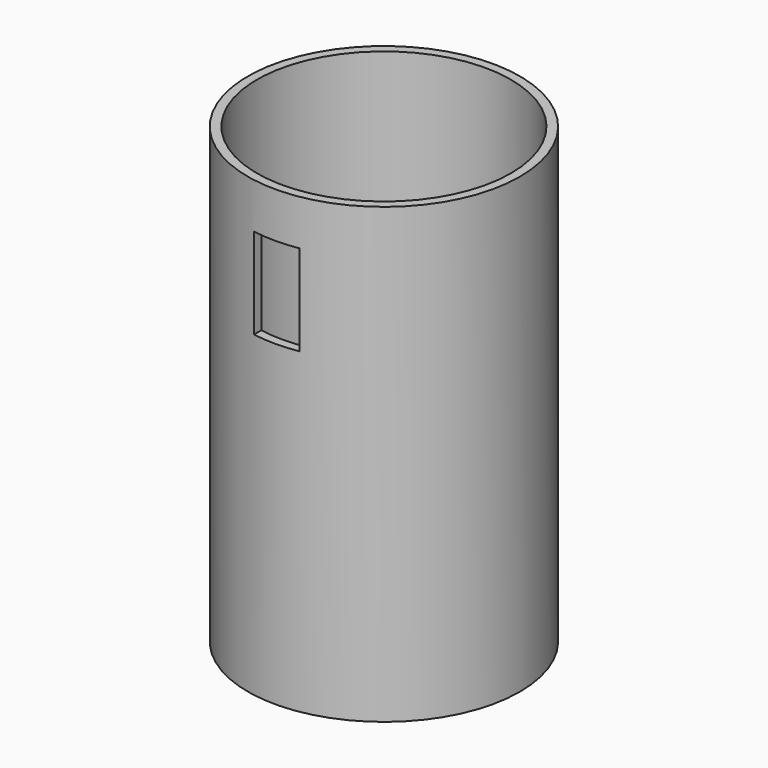
from build123d import *

# Parameters (mm, degrees)
F0_R     = 30
F1_DEPTH = 100
F2_R     = 28
F3_DEPTH = 98
F4_W     = 10
F4_H     = 20
F5_DEPTH = 30


with BuildPart() as f1:
    # F0 (on Top) → F1 (new body)
    with BuildSketch(Plane.XY):
        Circle(F0_R)
    extrude(amount=F1_DEPTH)

    # F2 (on face) → F3 (cut)
    with BuildSketch(Plane.XY.offset(100)):
        Circle(F2_R)
    extrude(amount=-F3_DEPTH, mode=Mode.SUBTRACT)

    # F4 (on Front) → F5 (cut)
    with BuildSketch(Plane.XZ):
        with Locations((0, 80)):
            Rectangle(F4_W, F4_H)
    extrude(amount=F5_DEPTH, mode=Mode.SUBTRACT)


solid = f1.part
